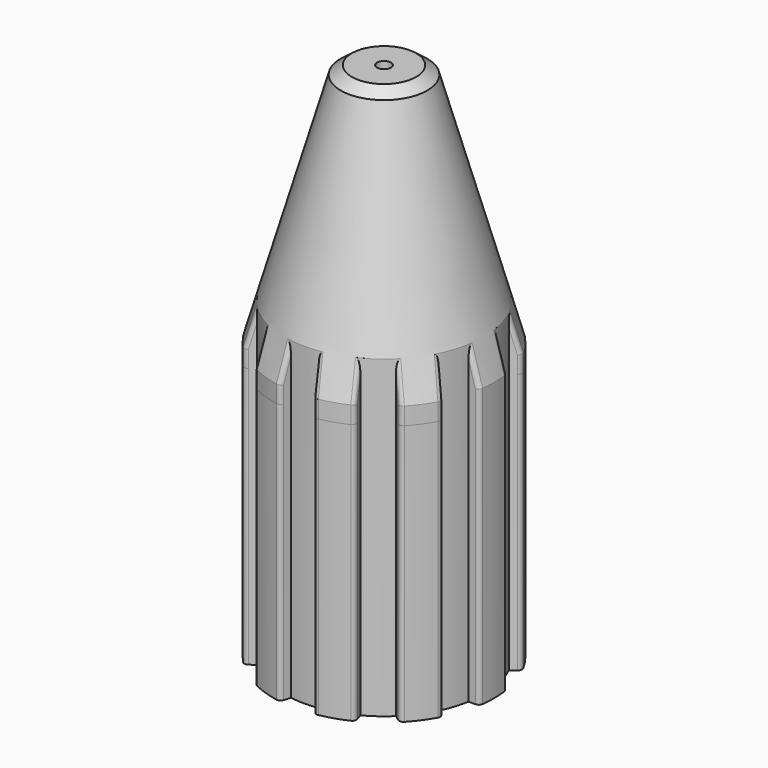
from build123d import *

# Parameters (mm, degrees)
F0_R     = 6.025
F1_DEPTH = 30
F2_R     = 12.7
F2_R_2   = 0.8
F3_DEPTH = 30
F4_SIZE2 = 28
F4_SIZE  = 8
F5_SIZE  = 0.5
F6_SIZE  = 1
F7_DEPTH = 25
F8_DEPTH = 25
F9_R     = 0.5


with BuildPart() as f1:
    # F0 (on Top) → F1 (new body)
    with BuildSketch(Plane.XY):
        with BuildLine():
            Line((11.3247516529, -2), (12.541531007, -2))
            ThreePointArc((12.541531007, -2), (12.7, 0), (12.541531007, 2))
            Line((12.541531007, 2), (11.3247516529, 2))
            ThreePointArc((11.3247516529, 2), (10.9371499374, 3.5536954353), (10.3374870489, 5.0384880187))
            Line((10.3374870489, 5.0384880187), (11.3218822247, 5.7536929783))
            ThreePointArc((11.3218822247, 5.7536929783), (10.2745158286, 7.4648727041), (8.9707412156, 8.9897609558))
            Line((8.9707412156, 8.9897609558), (7.9863460397, 8.2745559962))
            ThreePointArc((7.9863460397, 8.2745559962), (6.7595304014, 9.3036954353), (5.4016537504, 10.1524448662))
            Line((5.4016537504, 10.1524448662), (5.7776592492, 11.3096707998))
            ThreePointArc((5.7776592492, 11.3096707998), (3.9245158286, 12.0784177569), (1.9734331841, 12.5457387773))
            Line((1.9734331841, 12.5457387773), (1.5974276852, 11.3885128437))
            ThreePointArc((1.5974276852, 11.3885128437), (0, 11.5), (-1.5974276852, 11.3885128437))
            Line((-1.5974276852, 11.3885128437), (-1.9734331841, 12.5457387773))
            ThreePointArc((-1.9734331841, 12.5457387773), (-3.9245158286, 12.0784177569), (-5.7776592492, 11.3096707998))
            Line((-5.7776592492, 11.3096707998), (-5.4016537504, 10.1524448662))
            ThreePointArc((-5.4016537504, 10.1524448662), (-6.7595304014, 9.3036954353), (-7.9863460397, 8.2745559962))
            Line((-7.9863460397, 8.2745559962), (-8.9707412156, 8.9897609558))
            ThreePointArc((-8.9707412156, 8.9897609558), (-10.2745158286, 7.4648727041), (-11.3218822247, 5.7536929783))
            Line((-11.3218822247, 5.7536929783), (-10.3374870489, 5.0384880187))
            ThreePointArc((-10.3374870489, 5.0384880187), (-10.9371499374, 3.5536954353), (-11.3247516529, 2))
            Line((-11.3247516529, 2), (-12.541531007, 2))
            ThreePointArc((-12.541531007, 2), (-12.7, 0), (-12.541531007, -2))
            Line((-12.541531007, -2), (-11.3247516529, -2))
            ThreePointArc((-11.3247516529, -2), (-10.9371499374, -3.5536954353), (-10.3374870489, -5.0384880187))
            Line((-10.3374870489, -5.0384880187), (-11.3218822247, -5.7536929783))
            ThreePointArc((-11.3218822247, -5.7536929783), (-10.2745158286, -7.4648727041), (-8.9707412156, -8.9897609558))
            Line((-8.9707412156, -8.9897609558), (-7.9863460397, -8.2745559962))
            ThreePointArc((-7.9863460397, -8.2745559962), (-6.7595304014, -9.3036954353), (-5.4016537504, -10.1524448662))
            Line((-5.4016537504, -10.1524448662), (-5.7776592492, -11.3096707998))
            ThreePointArc((-5.7776592492, -11.3096707998), (-3.9245158286, -12.0784177569), (-1.9734331841, -12.5457387773))
            Line((-1.9734331841, -12.5457387773), (-1.5974276852, -11.3885128437))
            ThreePointArc((-1.5974276852, -11.3885128437), (0, -11.5), (1.5974276852, -11.3885128437))
            Line((1.5974276852, -11.3885128437), (1.9734331841, -12.5457387773))
            ThreePointArc((1.9734331841, -12.5457387773), (3.9245158286, -12.0784177569), (5.7776592492, -11.3096707998))
            Line((5.7776592492, -11.3096707998), (5.4016537504, -10.1524448662))
            ThreePointArc((5.4016537504, -10.1524448662), (6.7595304014, -9.3036954353), (7.9863460397, -8.2745559962))
            Line((7.9863460397, -8.2745559962), (8.9707412156, -8.9897609558))
            ThreePointArc((8.9707412156, -8.9897609558), (10.2745158286, -7.4648727041), (11.3218822247, -5.7536929783))
            Line((11.3218822247, -5.7536929783), (10.3374870489, -5.0384880187))
            ThreePointArc((10.3374870489, -5.0384880187), (10.9371499374, -3.5536954353), (11.3247516529, -2))
        make_face()
        Circle(F0_R, mode=Mode.SUBTRACT)
    extrude(amount=F1_DEPTH)

    # F2 (on face) → F3 (join)
    with BuildSketch(Plane.XY.offset(30)):
        Circle(F2_R)
        Circle(F2_R_2, mode=Mode.SUBTRACT)
    extrude(amount=F3_DEPTH)

    # F4
    f4_edges = [f1.edges().sort_by_distance(p)[0] for p in [
        (-12.7, 0, 60),
    ]]
    f4_side = f1.faces().sort_by_distance((-12.34079, 0, 60))[0]
    chamfer(f4_edges, length=F4_SIZE, length2=F4_SIZE2, reference=f4_side)

    # F5
    f5_edges = [f1.edges().sort_by_distance(p)[0] for p in [
        (-6.025, 0, 0),
    ]]
    chamfer(f5_edges, length=F5_SIZE)

    # F6
    f6_edges = [f1.edges().sort_by_distance(p)[0] for p in [
        (-4.7, 0, 60),
    ]]
    chamfer(f6_edges, length=F6_SIZE)

    # F2 (on face) → F7 (cut)
    with BuildSketch(Plane.XY.offset(30)):
        with BuildLine():
            ThreePointArc((5.7776592492, -11.3096707998), (7.4648727041, -10.2745158286), (8.9707412156, -8.9897609558))
            Line((8.9707412156, -8.9897609558), (7.9863460397, -8.2745559962))
            ThreePointArc((7.9863460397, -8.2745559962), (6.7595304014, -9.3036954353), (5.4016537504, -10.1524448662))
            Line((5.4016537504, -10.1524448662), (5.7776592492, -11.3096707998))
        make_face()
    extrude(amount=F7_DEPTH, mode=Mode.SUBTRACT)

    # F2 (on face) → F8 (cut)
    with BuildSketch(Plane.XY.offset(30)):
        with BuildLine():
            ThreePointArc((-1.9734331841, -12.5457387773), (0, -12.7), (1.9734331841, -12.5457387773))
            Line((1.9734331841, -12.5457387773), (1.5974276852, -11.3885128437))
            ThreePointArc((1.5974276852, -11.3885128437), (0, -11.5), (-1.5974276852, -11.3885128437))
            Line((-1.5974276852, -11.3885128437), (-1.9734331841, -12.5457387773))
        make_face()
        with BuildLine():
            ThreePointArc((11.3218822247, -5.7536929783), (12.0784177569, -3.9245158286), (12.541531007, -2))
            Line((12.541531007, -2), (11.3247516529, -2))
            ThreePointArc((11.3247516529, -2), (10.9371499374, -3.5536954353), (10.3374870489, -5.0384880187))
            Line((10.3374870489, -5.0384880187), (11.3218822247, -5.7536929783))
        make_face()
        with BuildLine():
            ThreePointArc((-8.9707412156, -8.9897609558), (-7.4648727041, -10.2745158286), (-5.7776592492, -11.3096707998))
            Line((-5.7776592492, -11.3096707998), (-5.4016537504, -10.1524448662))
            ThreePointArc((-5.4016537504, -10.1524448662), (-6.7595304014, -9.3036954353), (-7.9863460397, -8.2745559962))
            Line((-7.9863460397, -8.2745559962), (-8.9707412156, -8.9897609558))
        make_face()
        with BuildLine():
            ThreePointArc((-12.541531007, -2), (-12.0784177569, -3.9245158286), (-11.3218822247, -5.7536929783))
            Line((-11.3218822247, -5.7536929783), (-10.3374870489, -5.0384880187))
            ThreePointArc((-10.3374870489, -5.0384880187), (-10.9371499374, -3.5536954353), (-11.3247516529, -2))
            Line((-11.3247516529, -2), (-12.541531007, -2))
        make_face()
        with BuildLine():
            Line((-10.3374870489, 5.0384880187), (-11.3218822247, 5.7536929783))
            ThreePointArc((-11.3218822247, 5.7536929783), (-12.0784177569, 3.9245158286), (-12.541531007, 2))
            Line((-12.541531007, 2), (-11.3247516529, 2))
            ThreePointArc((-11.3247516529, 2), (-10.9371499374, 3.5536954353), (-10.3374870489, 5.0384880187))
        make_face()
        with BuildLine():
            Line((-5.4016537504, 10.1524448662), (-5.7776592492, 11.3096707998))
            ThreePointArc((-5.7776592492, 11.3096707998), (-7.4648727041, 10.2745158286), (-8.9707412156, 8.9897609558))
            Line((-8.9707412156, 8.9897609558), (-7.9863460397, 8.2745559962))
            ThreePointArc((-7.9863460397, 8.2745559962), (-6.7595304014, 9.3036954353), (-5.4016537504, 10.1524448662))
        make_face()
        with BuildLine():
            Line((1.5974276852, 11.3885128437), (1.9734331841, 12.5457387773))
            ThreePointArc((1.9734331841, 12.5457387773), (0, 12.7), (-1.9734331841, 12.5457387773))
            Line((-1.9734331841, 12.5457387773), (-1.5974276852, 11.3885128437))
            ThreePointArc((-1.5974276852, 11.3885128437), (0, 11.5), (1.5974276852, 11.3885128437))
        make_face()
        with BuildLine():
            Line((7.9863460397, 8.2745559962), (8.9707412156, 8.9897609558))
            ThreePointArc((8.9707412156, 8.9897609558), (7.4648727041, 10.2745158286), (5.7776592492, 11.3096707998))
            Line((5.7776592492, 11.3096707998), (5.4016537504, 10.1524448662))
            ThreePointArc((5.4016537504, 10.1524448662), (6.7595304014, 9.3036954353), (7.9863460397, 8.2745559962))
        make_face()
        with BuildLine():
            Line((11.3247516529, 2), (12.541531007, 2))
            ThreePointArc((12.541531007, 2), (12.0784177569, 3.9245158286), (11.3218822247, 5.7536929783))
            Line((11.3218822247, 5.7536929783), (10.3374870489, 5.0384880187))
            ThreePointArc((10.3374870489, 5.0384880187), (10.9371499374, 3.5536954353), (11.3247516529, 2))
        make_face()
    extrude(amount=F8_DEPTH, mode=Mode.SUBTRACT)

    # F9
    f9_edges = [f1.edges().sort_by_distance(p)[0] for p in [
        (5.777659, -11.309671, 16),
        (5.589778, -10.731431, 34.100114),
        (8.970741, -8.989761, 16),
        (8.478861, -8.632389, 34.100114),
        (1.973433, -12.545739, 16),
        (1.785552, -11.967499, 34.100114),
        (-1.785552, -11.967499, 34.100114),
        (-1.973433, -12.545739, 15),
        (-1.973433, -12.545739, 31),
        (-5.589778, -10.731431, 34.100114),
        (-5.777659, -11.309671, 15),
        (-5.777659, -11.309671, 31),
        (-8.478861, -8.632389, 34.100114),
        (-8.970741, -8.989761, 15),
        (-8.970741, -8.989761, 31),
        (-11.933533, -2, 34.100114),
        (-12.541531, -2, 15),
        (-12.541531, -2, 31),
        (-10.830002, -5.396321, 34.100114),
        (-11.321882, -5.753693, 15),
        (-11.321882, -5.753693, 31),
        (-10.830002, 5.396321, 34.100114),
        (-11.321882, 5.753693, 15),
        (-11.321882, 5.753693, 31),
        (-12.541531, 2, 15),
        (-12.541531, 2, 31),
        (-11.933533, 2, 34.100114),
        (-8.478861, 8.632389, 34.100114),
        (-8.970741, 8.989761, 15),
        (-8.970741, 8.989761, 31),
        (-5.589778, 10.731431, 34.100114),
        (-5.777659, 11.309671, 16),
        (-1.785552, 11.967499, 34.100114),
        (-1.973433, 12.545739, 16),
        (1.785552, 11.967499, 34.100114),
        (1.973433, 12.545739, 16),
        (5.589778, 10.731431, 34.100114),
        (5.777659, 11.309671, 16),
        (8.478861, 8.632389, 34.100114),
        (8.970741, 8.989761, 16),
        (11.933533, 2, 34.100114),
        (12.541531, 2, 16),
        (10.830002, 5.396321, 34.100114),
        (11.321882, 5.753693, 16),
        (11.933533, -2, 34.100114),
        (12.541531, -2, 16),
        (10.830002, -5.396321, 34.100114),
        (11.321882, -5.753693, 16),
    ]]
    fillet(f9_edges, radius=F9_R)


solid = f1.part
